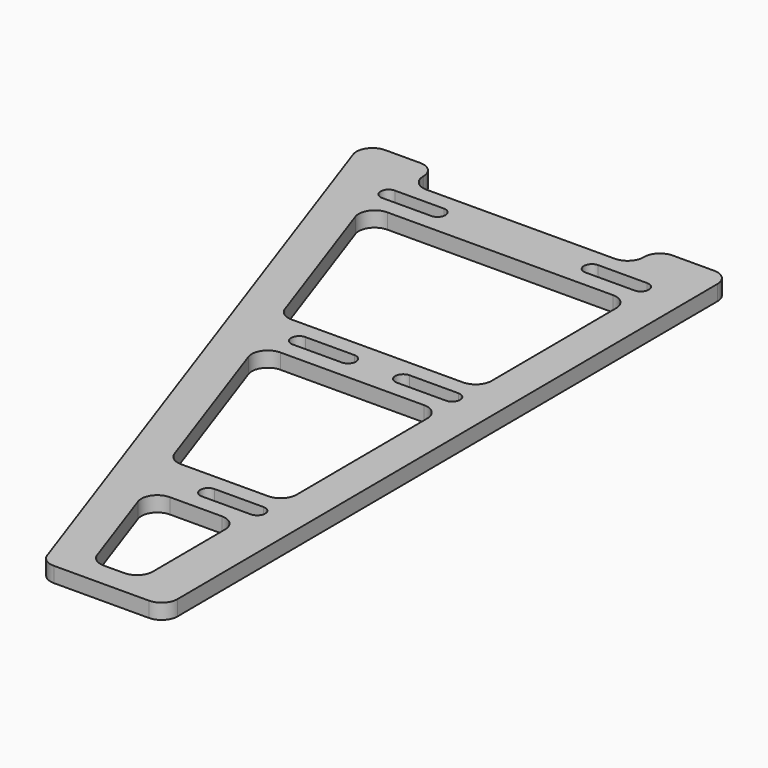
from build123d import *

# Parameters (mm, degrees)
PAD_DEPTH              = 6.25
FILLET_R               = 6.5
MIRROR_ROLL_ANGLE      = -179.860318
MIRROR_PITCH_ANGLE     = 1.669328
MIRROR_PLACEMENT_ANGLE = 0.337481


with BuildPart() as body:
    # Sketch → Pad (new body)
    with BuildSketch(Plane.XY):
        Polygon((0, 290), (50, 290), (150, 0), (120, 0), (120, 13.2), (30, 13.2), (30, 0), (0, 0), align=None)
        Polygon((15, 210), (15, 130), (89.30566, 130), (61.719453, 210), align=None, mode=Mode.SUBTRACT)
        Polygon((15, 110), (15, 33.2), (122.684971, 33.2), (96.202212, 110), align=None, mode=Mode.SUBTRACT)
        with BuildLine():
            ThreePointArc((18, 223.25), (14.75, 220), (18, 216.75))
            Line((18, 216.75), (38, 216.75))
            ThreePointArc((38, 216.75), (41.25, 220), (38, 223.25))
            Line((38, 223.25), (18, 223.25))
        make_face(mode=Mode.SUBTRACT)
        with BuildLine():
            ThreePointArc((60.5, 123.25), (57.25, 120), (60.5, 116.75))
            Line((60.5, 116.75), (80.5, 116.75))
            ThreePointArc((80.5, 116.75), (83.75, 120), (80.5, 123.25))
            Line((80.5, 123.25), (60.5, 123.25))
        make_face(mode=Mode.SUBTRACT)
        with BuildLine():
            ThreePointArc((18, 123.25), (14.75, 120), (18, 116.75))
            Line((18, 116.75), (38, 116.75))
            ThreePointArc((38, 116.75), (41.25, 120), (38, 123.25))
            Line((38, 123.25), (18, 123.25))
        make_face(mode=Mode.SUBTRACT)
        with BuildLine():
            ThreePointArc((18, 26.45), (14.75, 23.2), (18, 19.95))
            Line((18, 19.95), (38, 19.95))
            ThreePointArc((38, 19.95), (41.25, 23.2), (38, 26.45))
            Line((38, 26.45), (18, 26.45))
        make_face(mode=Mode.SUBTRACT)
        with BuildLine():
            ThreePointArc((101, 26.45), (97.75, 23.2), (101, 19.95))
            Line((101, 19.95), (121, 19.95))
            ThreePointArc((121, 19.95), (124.25, 23.2), (121, 26.45))
            Line((121, 26.45), (101, 26.45))
        make_face(mode=Mode.SUBTRACT)
        Polygon((18, 280), (18, 230), (54.822902, 230), (37.581522, 280), align=None, mode=Mode.SUBTRACT)
    extrude(amount=PAD_DEPTH)

    # Fillet
    fillet_edges = [body.edges().sort_by_distance(p)[0] for p in [
        (0, 0, 3.125),
        (50, 290, 3.125),
        (0, 290, 3.125),
        (150, 0, 3.125),
        (120, 0, 3.125),
        (30, 0, 3.125),
        (61.719453, 210, 3.125),
        (15, 210, 3.125),
        (96.202212, 110, 3.125),
        (15, 110, 3.125),
        (15, 130, 3.125),
        (15, 33.2, 3.125),
        (122.684971, 33.2, 3.125),
        (89.30566, 130, 3.125),
        (30, 13.2, 3.125),
        (120, 13.2, 3.125),
        (18, 280, 3.125),
        (18, 230, 3.125),
        (37.581522, 280, 3.125),
        (54.822902, 230, 3.125),
    ]]
    fillet(fillet_edges, radius=FILLET_R)


with BuildPart() as body_1:
    # Body placement: moved
    add(body.part.moved(Location((-2, 0, 0))))


with BuildPart() as model_body_mirrored:
    # mirror: instance of Body
    add(body_1.part.mirror(Plane(origin=(159.181488, 124.226166, 5.790833), x_dir=(-0.001618, 0.999999, 0), z_dir=(-0.999887, -0.001617, 0.014919))))


with BuildPart() as model_body_mirrored_1:
    # mirror roll: moved
    add(model_body_mirrored.part.rotate(Axis((0, 0, 0), (1, 0, 0)), MIRROR_ROLL_ANGLE))


with BuildPart() as model_body_mirrored_2:
    # mirror pitch: moved
    add(model_body_mirrored_1.part.rotate(Axis((0, 0, 0), (0, 1, 0)), MIRROR_PITCH_ANGLE))


with BuildPart() as model_body_mirrored_3:
    # mirror placement: moved
    add(model_body_mirrored_2.part.moved(Location((-113.201923, 287.892908, 10.586))).rotate(Axis((-113.201923, 287.892908, 10.586), (0, 0, 1)), MIRROR_PLACEMENT_ANGLE))


solid = model_body_mirrored_3.part
